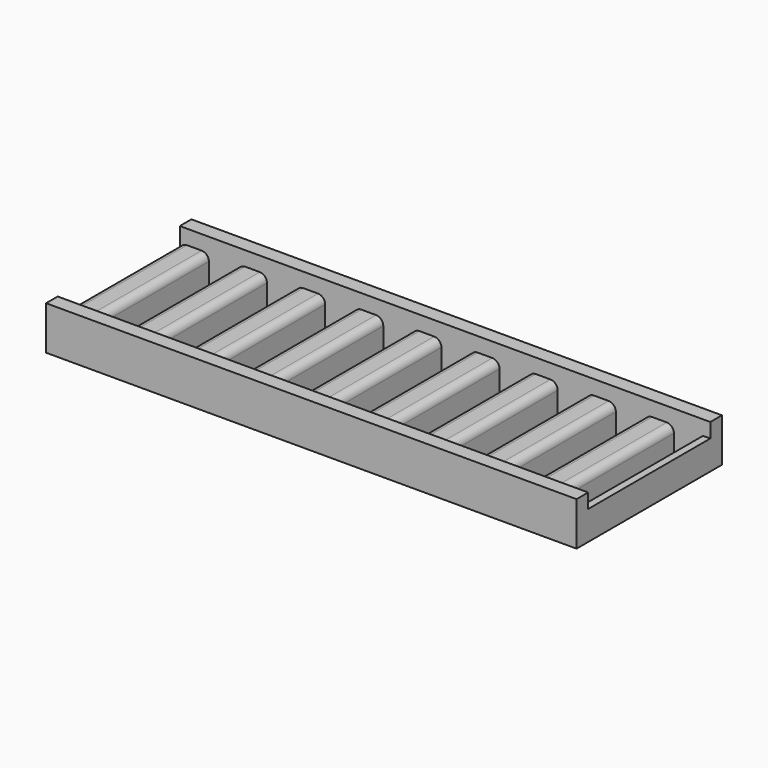
from build123d import *

# Parameters (mm, degrees)
F0_W     = 4
F0_H     = 21
F1_DEPTH = 4
F2_R     = 1
F3_W     = 73
F3_H     = 2
F4_DEPTH = 2
F5_R     = 1


with BuildPart() as f1:
    # F0 (on Top) → F1 (new body)
    with BuildSketch(Plane.XY):
        Polygon((0, 25), (0, 0), (73, 0), (73, 25), (68, 25), align=None)
        with Locations((6, 12.5)):
            Rectangle(F0_W, F0_H, mode=Mode.SUBTRACT)
        with Locations((14, 12.5)):
            Rectangle(F0_W, F0_H, mode=Mode.SUBTRACT)
        with Locations((22, 12.5)):
            Rectangle(F0_W, F0_H, mode=Mode.SUBTRACT)
        with Locations((30, 12.5)):
            Rectangle(F0_W, F0_H, mode=Mode.SUBTRACT)
        with Locations((38, 12.5)):
            Rectangle(F0_W, F0_H, mode=Mode.SUBTRACT)
        with Locations((46, 12.5)):
            Rectangle(F0_W, F0_H, mode=Mode.SUBTRACT)
        with Locations((54, 12.5)):
            Rectangle(F0_W, F0_H, mode=Mode.SUBTRACT)
        with Locations((62, 12.5)):
            Rectangle(F0_W, F0_H, mode=Mode.SUBTRACT)
        with Locations((70, 12.5)):
            Rectangle(F0_W, F0_H, mode=Mode.SUBTRACT)
    extrude(amount=F1_DEPTH)

    # F2
    f2_edges = [f1.edges().sort_by_distance(p)[0] for p in [
        (8, 12.5, 4),
        (12, 12.5, 4),
        (16, 12.5, 4),
        (20, 12.5, 4),
        (24, 12.5, 4),
        (28, 12.5, 4),
        (32, 12.5, 4),
        (36, 12.5, 4),
        (40, 12.5, 4),
        (44, 12.5, 4),
        (48, 12.5, 4),
        (52, 12.5, 4),
        (56, 12.5, 4),
        (60, 12.5, 4),
        (64, 12.5, 4),
        (68, 12.5, 4),
    ]]
    fillet(f2_edges, radius=F2_R)

    # F3 (on face) → F4 (join)
    with BuildSketch(Plane.XY.offset(4)):
        with Locations((36.5, 1)):
            Rectangle(F3_W, F3_H)
        with Locations((36.5, 24)):
            Rectangle(F3_W, F3_H)
    extrude(amount=F4_DEPTH)

    # F5
    f5_edges = [f1.edges().sort_by_distance(p)[0] for p in [
        (4, 12.5, 4),
        (0, 12.5, 4),
    ]]
    fillet(f5_edges, radius=F5_R)


solid = f1.part
